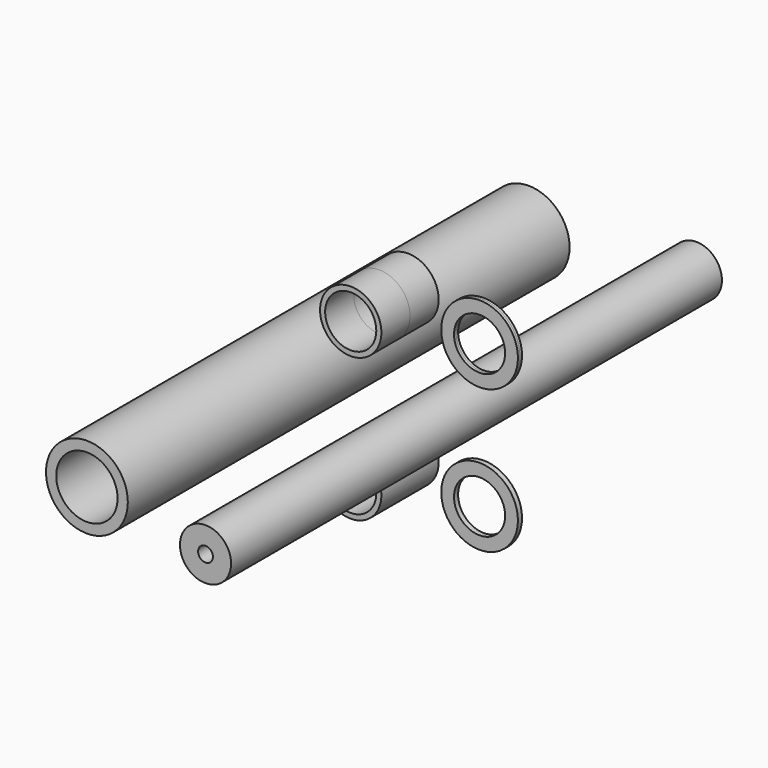
from build123d import *

# Parameters (mm, degrees)
F0_R      = 40
F0_R_2    = 30
F1_DEPTH  = 270
F2_R      = 30
F2_R_2    = 25
F3_DEPTH  = 35
F4_R      = 25
F5_DEPTH  = 300
F6_R      = 37.5
F6_R_2    = 25
F7_DEPTH  = 2.5
F8_R      = 7.25
F9_DEPTH  = 40
F10_R     = 7.25
F11_DEPTH = 40


with BuildPart() as f1:
    # F0 (on Front) → F1 (new body, symmetric)
    with BuildSketch(Plane.XZ):
        with Locations((-70, 0)):
            Circle(F0_R)
        with Locations((-70, 0)):
            Circle(F0_R_2, mode=Mode.SUBTRACT)
    extrude(amount=F1_DEPTH, both=True)


with BuildPart() as f3:
    # F2 (on Front) → F3 (new body, symmetric)
    with BuildSketch(Plane.XZ):
        with Locations((0, 70)):
            Circle(F2_R)
        with Locations((0, 70)):
            Circle(F2_R_2, mode=Mode.SUBTRACT)
        with Locations((0, -70)):
            Circle(F2_R)
        with Locations((0, -70)):
            Circle(F2_R_2, mode=Mode.SUBTRACT)
    extrude(amount=F3_DEPTH, both=True)


with BuildPart() as f5:
    # F4 (on Front) → F5 (new body, symmetric)
    with BuildSketch(Plane.XZ):
        with Locations((70, 0)):
            Circle(F4_R)
    extrude(amount=F5_DEPTH, both=True)

    # F8 (on face) → F9 (cut)
    with BuildSketch(Plane.XZ.offset(300)):
        with Locations((70, 0)):
            Circle(F8_R)
    extrude(amount=-F9_DEPTH, mode=Mode.SUBTRACT)

    # F10 (on face) → F11 (cut)
    with BuildSketch(Plane(origin=(0, 300, 0), x_dir=(-1, 0, 0), z_dir=(0, 1, 0))):
        with Locations((-70, 0)):
            Circle(F10_R)
    extrude(amount=-F11_DEPTH, mode=Mode.SUBTRACT)


with BuildPart() as f7:
    # F6 (on Front) → F7 (new body, symmetric)
    with BuildSketch(Plane.XZ):
        with Locations((100, 70)):
            Circle(F6_R)
        with Locations((100, 70)):
            Circle(F6_R_2, mode=Mode.SUBTRACT)
        with Locations((100, -70)):
            Circle(F6_R)
        with Locations((100, -70)):
            Circle(F6_R_2, mode=Mode.SUBTRACT)
    extrude(amount=F7_DEPTH, both=True)


solid = Compound([f1.part, f3.part, f5.part, f7.part])
